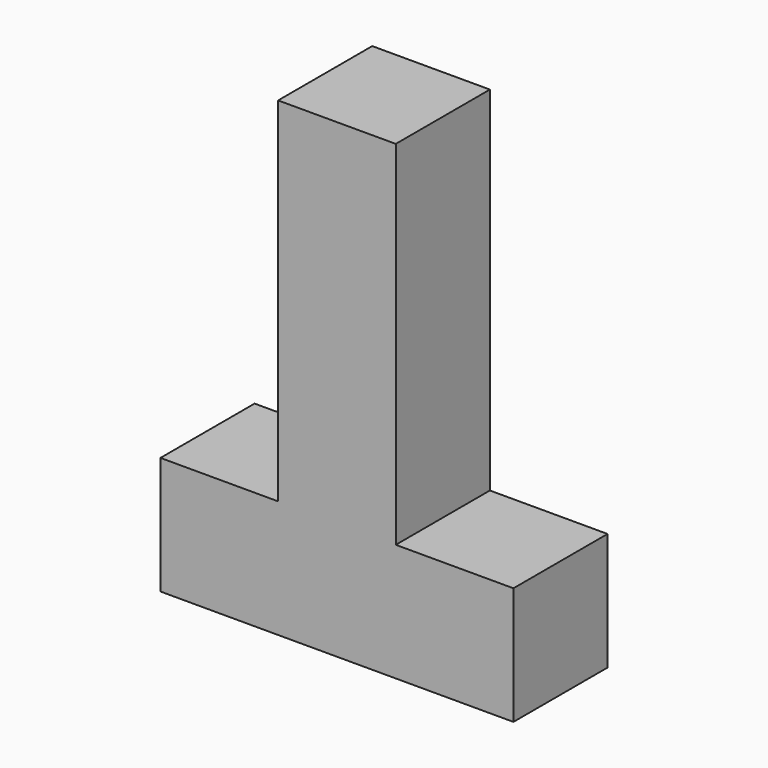
from build123d import *

# Parameters (mm, degrees)
F0_W     = 76.2
F0_H     = 101.6
F1_DEPTH = 25.4
F2_W     = 25.4
F2_H     = 76.2
F3_DEPTH = 25.4


with BuildPart() as f1:
    # F0 (on Front) → F1 (new body)
    with BuildSketch(Plane.XZ):
        with Locations((-38.1, -50.8)):
            Rectangle(F0_W, F0_H)
    extrude(amount=F1_DEPTH)

    # F2 (on Front) → F3 (cut)
    with BuildSketch(Plane.XZ):
        with Locations((-63.5, -38.1)):
            Rectangle(F2_W, F2_H)
        with Locations((-12.7, -38.1)):
            Rectangle(F2_W, F2_H)
    extrude(amount=F3_DEPTH, mode=Mode.SUBTRACT)


solid = f1.part
